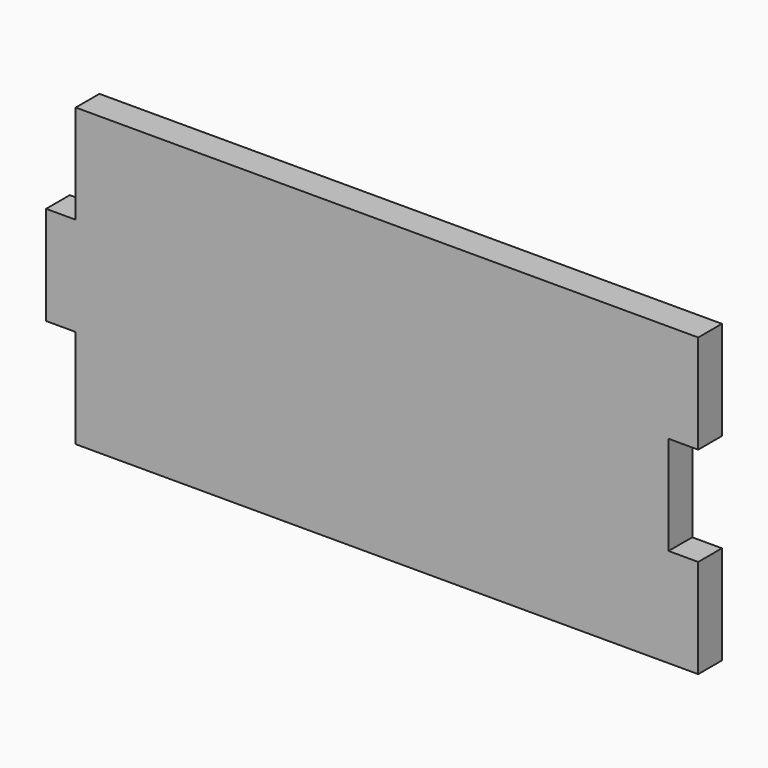
from build123d import *

# Parameters (mm, degrees)
F0_W     = 60
F0_H     = 3
F1_DEPTH = 30
F2_W     = 3
F2_H     = 10
F3_DEPTH = 3
F4_W     = 3
F4_H     = 10
F5_DEPTH = 3


with BuildPart() as f1:
    # F0 (on Top) → F1 (new body)
    with BuildSketch(Plane.XY):
        with Locations((1.74342, -0.519499)):
            Rectangle(F0_W, F0_H)
    extrude(amount=F1_DEPTH)

    # F2 (on face) → F3 (join)
    with BuildSketch(Plane.YZ.offset(31.74342)):
        with Locations((-0.519499, 25)):
            Rectangle(F2_W, F2_H)
        with Locations((-0.519499, 5)):
            Rectangle(F2_W, F2_H)
    extrude(amount=F3_DEPTH)

    # F4 (on face) → F5 (join)
    with BuildSketch(Plane(origin=(-28.25658, 0, 0), x_dir=(0, -1, 0), z_dir=(-1, 0, 0))):
        with Locations((0.519499, 15)):
            Rectangle(F4_W, F4_H)
    extrude(amount=F5_DEPTH)


solid = f1.part
